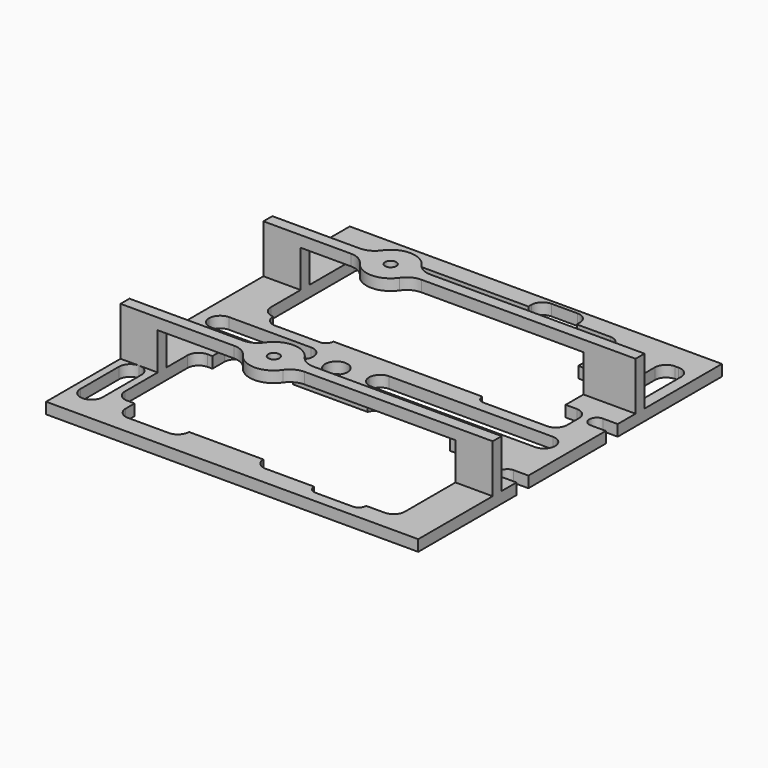
from build123d import *

# Parameters (mm, degrees)
F0_R      = 3
F1_DEPTH  = 3
F2_W      = 10
F2_H      = 3
F2_W_2    = 14
F3_DEPTH  = 10
F5_DEPTH  = 3
F6_R      = 4.8
F6_R_2    = 2.5
F7_DEPTH  = 2
F9_DEPTH  = 25
F10_R     = 5
F11_R     = 1.5
F12_DEPTH = 25


with BuildPart() as f1:
    # F0 (on Top) → F1 (new body)
    with BuildSketch(Plane.XY):
        with BuildLine():
            Line((0, 0), (3, 0))
            Line((3, 0), (97, 0))
            Line((97, 0), (100, 0))
            Line((100, 0), (100, 33))
            Line((100, 33), (96, 33))
            ThreePointArc((96, 33), (94, 35), (96, 37))
            Line((96, 37), (100, 37))
            Line((100, 37), (100, 63.000004))
            Line((100, 63.000004), (96.003777, 63.000004))
            ThreePointArc((96.003777, 63.000004), (94.000001, 64.998112), (96, 67))
            Line((96, 67), (100, 67))
            Line((100, 67), (100, 102))
            Line((100, 102), (97, 102))
            Line((97, 102), (3, 102))
            Line((3, 102), (0, 102))
            Line((0, 102), (0, 0))
        make_face()
        with Locations((38, 50)):
            Circle(F0_R, mode=Mode.SUBTRACT)
        with BuildLine():
            Line((10, 14), (10, 35))
            ThreePointArc((10, 35), (10.87868, 37.12132), (13, 38))
            Line((13, 38), (14.296335, 38))
            Line((14.296335, 38), (14.296335, 42))
            ThreePointArc((14.296335, 42), (15.175015, 44.12132), (17.296335, 45))
            Line((17.296335, 45), (26, 45))
            Line((26, 45), (29, 45))
            ThreePointArc((29, 45), (29.169876, 45.004813), (29.339751, 45))
            ThreePointArc((29.339751, 45), (30.972651, 44.402729), (32, 43))
            Line((32, 43), (52, 43))
            ThreePointArc((52, 43), (53.166024, 44.500964), (55, 45))
            Line((55, 45), (73.5, 45))
            ThreePointArc((73.5, 45), (75.62132, 44.12132), (76.5, 42))
            Line((76.5, 42), (76.5, 40))
            Line((76.5, 40), (87, 40))
            ThreePointArc((87, 40), (89.12132, 39.12132), (90, 37))
            Line((90, 37), (90, 35.75))
            Line((90, 35.75), (90, 16.5))
            Line((90, 16.5), (90, 8))
            ThreePointArc((90, 8), (89.12132, 5.87868), (87, 5))
            Line((87, 5), (82, 5))
            ThreePointArc((82, 5), (81.414214, 3.585786), (80, 3))
            Line((80, 3), (70, 3))
            ThreePointArc((70, 3), (68.585786, 3.585786), (68, 5))
            Line((68, 5), (55, 5))
            ThreePointArc((55, 5), (52.87868, 5.87868), (52, 8))
            Line((52, 8), (32, 8))
            ThreePointArc((32, 8), (31.12132, 5.87868), (29, 5))
            Line((29, 5), (24, 5))
            Line((24, 5), (18, 5))
            ThreePointArc((18, 5), (15.87868, 5.87868), (15, 8))
            Line((15, 8), (15, 11))
            Line((15, 11), (13, 11))
            ThreePointArc((13, 11), (10.87868, 11.87868), (10, 14))
        make_face(mode=Mode.SUBTRACT)
        with BuildLine():
            Line((16, 97), (26, 97))
            Line((26, 97), (52, 97))
            Line((52, 97), (52, 98))
            ThreePointArc((52, 98), (52.87868, 100.12132), (55, 101))
            Line((55, 101), (62, 101))
            ThreePointArc((62, 101), (64.12132, 100.12132), (65, 98))
            Line((65, 98), (65, 97))
            Line((65, 97), (74, 97))
            ThreePointArc((74, 97), (76.12132, 96.12132), (77, 94))
            Line((77, 94), (77, 88.5))
            Line((77, 88.5), (77, 82.5))
            Line((77, 82.5), (83, 82.5))
            ThreePointArc((83, 82.5), (85.12132, 81.62132), (86, 79.5))
            Line((86, 79.5), (86, 67))
            Line((86, 67), (89, 67))
            ThreePointArc((89, 67), (91.12132, 66.12132), (92, 64))
            Line((92, 64), (92, 60))
            ThreePointArc((92, 60), (91.12132, 57.87868), (89, 57))
            Line((89, 57), (72, 57))
            ThreePointArc((72, 57), (70.585786, 57.585786), (70, 59))
            Line((70, 59), (30, 59))
            ThreePointArc((30, 59), (29.414214, 57.585786), (28, 57))
            Line((28, 57), (23, 57))
            Line((23, 57), (16, 57))
            ThreePointArc((16, 57), (13.87868, 57.87868), (13, 60))
            ThreePointArc((13, 60), (10.87868, 60.87868), (10, 63))
            Line((10, 63), (10, 91))
            ThreePointArc((10, 91), (10.87868, 93.12132), (13, 94))
            ThreePointArc((13, 94), (13.87868, 96.12132), (16, 97))
        make_face(mode=Mode.SUBTRACT)
    extrude(amount=F1_DEPTH)

    # F2 (on face) → F3 (join)
    with BuildSketch(Plane.XY.offset(3)):
        with Locations((5, 26.5)):
            Rectangle(F2_W, F2_H)
        with Locations((95, 26.5)):
            Rectangle(F2_W, F2_H)
        with Locations((5, 74.5)):
            Rectangle(F2_W, F2_H)
        with Locations((93, 74.5)):
            Rectangle(F2_W_2, F2_H)
    extrude(amount=F3_DEPTH)

    # F4 (on face) → F5 (join)
    with BuildSketch(Plane.XY.offset(13)):
        with BuildLine():
            Line((0, 28), (0, 25))
            Line((0, 25), (33.675445, 25))
            ThreePointArc((33.675445, 25), (40, 20), (46.324555, 25))
            Line((46.324555, 25), (100, 25))
            Line((100, 25), (100, 28))
            Line((100, 28), (46.324555, 28))
            ThreePointArc((46.324555, 28), (40, 33), (33.675445, 28))
            Line((33.675445, 28), (0, 28))
        make_face()
        with BuildLine():
            Line((100, 73), (100, 76))
            Line((100, 76), (39.324555, 76))
            ThreePointArc((39.324555, 76), (33, 81), (26.675445, 76))
            Line((26.675445, 76), (0, 76))
            Line((0, 76), (0, 73))
            Line((0, 73), (26.675445, 73))
            ThreePointArc((26.675445, 73), (33, 68), (39.324555, 73))
            Line((39.324555, 73), (100, 73))
        make_face()
    extrude(amount=F5_DEPTH)

    # F6 (on face) → F7 (cut)
    with BuildSketch(Plane(origin=(0, 0, 13), x_dir=(1, 0, 0), z_dir=(0, 0, -1))):
        with Locations((40, -26.5)):
            Circle(F6_R)
        with Locations((40, -26.5)):
            Circle(F6_R_2, mode=Mode.SUBTRACT)
        with Locations((33, -74.5)):
            Circle(F6_R)
        with Locations((33, -74.5)):
            Circle(F6_R_2, mode=Mode.SUBTRACT)
    extrude(amount=-F7_DEPTH, mode=Mode.SUBTRACT)

    # F8 (on face) → F9 (cut)
    with BuildSketch(Plane.XY.offset(3)):
        with BuildLine():
            Line((93, 54), (49, 54))
            ThreePointArc((49, 54), (46.87868, 53.12132), (46, 51))
            ThreePointArc((46, 51), (46.87868, 48.87868), (49, 48))
            Line((49, 48), (93, 48))
            ThreePointArc((93, 48), (95.12132, 48.87868), (96, 51))
            ThreePointArc((96, 51), (95.12132, 53.12132), (93, 54))
        make_face()
        with BuildLine():
            ThreePointArc((90, 80), (90.87868, 77.87868), (93, 77))
            Line((93, 77), (94, 77))
            ThreePointArc((94, 77), (96.12132, 77.87868), (97, 80))
            Line((97, 80), (97, 92))
            ThreePointArc((97, 92), (96.12132, 94.12132), (94, 95))
            Line((94, 95), (93, 95))
            ThreePointArc((93, 95), (90.87868, 94.12132), (90, 92))
            Line((90, 92), (90, 80))
        make_face()
        with BuildLine():
            Line((2, 22), (2, 9))
            ThreePointArc((2, 9), (2.87868, 6.87868), (5, 6))
            ThreePointArc((5, 6), (7.12132, 6.87868), (8, 9))
            Line((8, 9), (8, 22))
            ThreePointArc((8, 22), (7.12132, 24.12132), (5, 25))
            ThreePointArc((5, 25), (2.87868, 24.12132), (2, 22))
        make_face()
        with BuildLine():
            ThreePointArc((31, 51), (30.12132, 53.12132), (28, 54))
            Line((28, 54), (6, 54))
            ThreePointArc((6, 54), (3.87868, 53.12132), (3, 51))
            ThreePointArc((3, 51), (3.87868, 48.87868), (6, 48))
            Line((6, 48), (28, 48))
            ThreePointArc((28, 48), (30.12132, 48.87868), (31, 51))
        make_face()
    extrude(amount=-F9_DEPTH, mode=Mode.SUBTRACT)

    # F10
    f10_edges = [f1.edges().sort_by_distance(p)[0] for p in [
        (33.675445, 25, 14.5),
        (46.324555, 25, 14.5),
        (46.324555, 28, 14.5),
        (39.324555, 76, 14.5),
        (33.675445, 28, 14.5),
        (26.675445, 76, 14.5),
        (26.675445, 73, 14.5),
        (39.324555, 73, 14.5),
    ]]
    fillet(f10_edges, radius=F10_R)

    # F11 (on face) → F12 (cut)
    with BuildSketch(Plane(origin=(0, 0, 13), x_dir=(1, 0, 0), z_dir=(0, 0, -1))):
        with Locations((40, -26.5)):
            Circle(F11_R)
        with Locations((33, -74.5)):
            Circle(F11_R)
    extrude(amount=-F12_DEPTH, mode=Mode.SUBTRACT)


solid = f1.part
